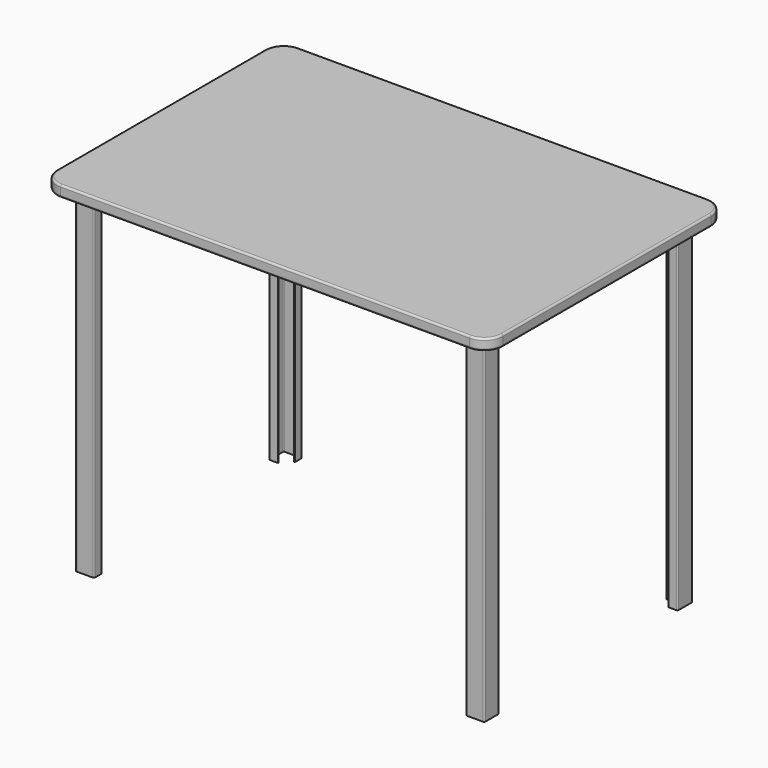
from build123d import *

# Parameters (mm, degrees)
F2_DEPTH  = 900
F3_W      = 80
F3_H      = 80
F4_DEPTH  = 5
F5_R      = 5
F7_D      = 5
F10_W     = 1200
F10_H     = 800
F11_DEPTH = 30
F12_R     = 50
F13_R     = 5


with BuildPart() as f2:
    # F1 (on offset) → F2 (new body)
    with BuildSketch(Plane.XY.offset(-5)):
        with BuildLine():
            ThreePointArc((-550, -346.5), (-548.9748737342, -348.9748737342), (-546.5, -350))
            Line((-546.5, -350), (-503.5, -350))
            ThreePointArc((-503.5, -350), (-501.0251262658, -348.9748737342), (-500, -346.5))
            Line((-500, -346.5), (-500, -325))
            Line((-500, -325), (-501.4999985695, -325))
            Line((-501.4999985695, -325), (-501.4999985695, -346.5))
            ThreePointArc((-501.4999985695, -346.5), (-502.0857854261, -347.9142145739), (-503.5, -348.5000014305))
            Line((-503.5, -348.5000014305), (-546.5, -348.5000014305))
            ThreePointArc((-546.5, -348.5000014305), (-547.9142145739, -347.9142145739), (-548.5000014305, -346.5))
            Line((-548.5000014305, -346.5), (-548.5000014305, -303.5))
            ThreePointArc((-548.5000014305, -303.5), (-547.9142145739, -302.0857854261), (-546.5, -301.4999985695))
            Line((-546.5, -301.4999985695), (-525, -301.4999985695))
            Line((-525, -301.4999985695), (-525, -300))
            Line((-525, -300), (-546.5, -300))
            ThreePointArc((-546.5, -300), (-548.9748737342, -301.0251262658), (-550, -303.5))
            Line((-550, -303.5), (-550, -346.5))
        make_face()
    extrude(amount=-F2_DEPTH)


with BuildPart() as f4:
    # F3 (on face) → F4 (new body)
    with BuildSketch(Plane.XY.offset(-5)):
        with Locations((-525, -325)):
            Rectangle(F3_W, F3_H)
    extrude(amount=F4_DEPTH)

    # F5
    f5_edges = [f4.edges().sort_by_distance(p)[0] for p in [
        (-565, -285, -2.5),
        (-565, -365, -2.5),
        (-485, -365, -2.5),
        (-485, -285, -2.5),
    ]]
    fillet(f5_edges, radius=F5_R)

    # F7 (through all)
    with Locations(Plane.XY):
        with Locations((-555, -355), (-495, -355), (-495, -295), (-555, -295)):
            Hole(F7_D / 2)


with BuildPart() as f8_1:
    # F8: instance of F2
    add(f2.part.mirror(Plane.XZ))


with BuildPart() as f8_2:
    # F8: instance of F4
    add(f4.part.mirror(Plane.XZ))


with BuildPart() as f9_1:
    # F9: instance of F8_1
    add(f8_1.part.mirror(Plane.YZ))


with BuildPart() as f9_2:
    # F9: instance of F2
    add(f2.part.mirror(Plane.YZ))


with BuildPart() as f9_3:
    # F9: instance of F8_2
    add(f8_2.part.mirror(Plane.YZ))


with BuildPart() as f9_4:
    # F9: instance of F4
    add(f4.part.mirror(Plane.YZ))


with BuildPart() as f11:
    # F10 (on Top) → F11 (new body)
    with BuildSketch(Plane.XY):
        Rectangle(F10_W, F10_H)
    extrude(amount=F11_DEPTH)

    # F12
    f12_edges = [f11.edges().sort_by_distance(p)[0] for p in [
        (600, -400, 15),
        (-600, -400, 15),
        (-600, 400, 15),
        (600, 400, 15),
    ]]
    fillet(f12_edges, radius=F12_R)

    # F13
    f13_edges = [f11.edges().sort_by_distance(p)[0] for p in [
        (0, 400, 30),
        (585.355339, 385.355339, 30),
        (-585.355339, 385.355339, 30),
        (600, 0, 30),
        (-600, 0, 30),
        (585.355339, -385.355339, 30),
        (-585.355339, -385.355339, 30),
        (0, -400, 30),
        (0, 400, 0),
        (585.355339, 385.355339, 0),
        (-585.355339, 385.355339, 0),
        (600, 0, 0),
        (-600, 0, 0),
        (585.355339, -385.355339, 0),
        (-585.355339, -385.355339, 0),
        (0, -400, 0),
    ]]
    fillet(f13_edges, radius=F13_R)


solid = Compound([f2.part, f4.part, f8_1.part, f8_2.part, f9_1.part, f9_2.part, f9_3.part, f9_4.part, f11.part])
